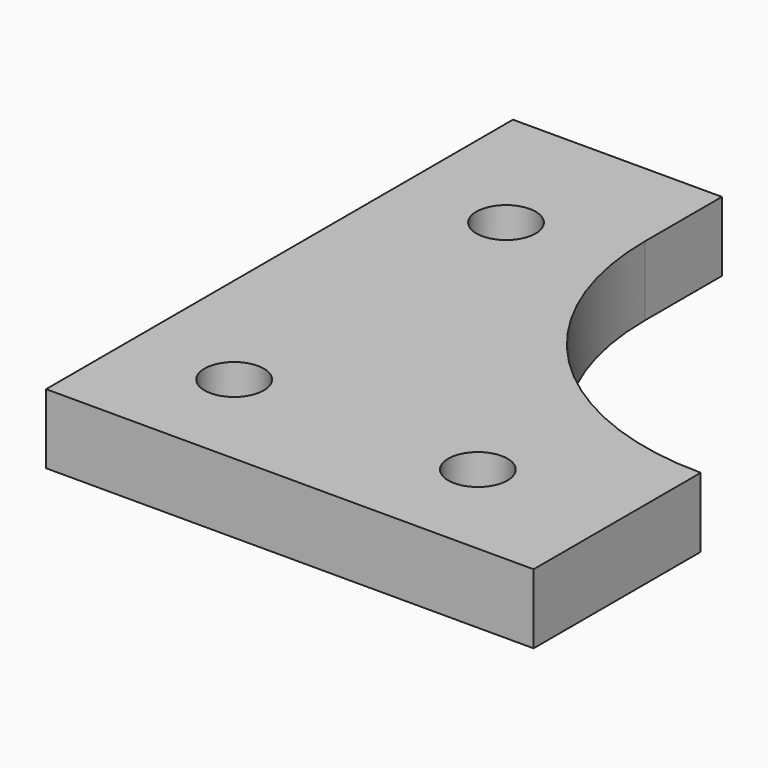
from build123d import *

# Parameters (mm, degrees)
F0_R     = 2.125
F1_DEPTH = 5


with BuildPart() as f1:
    # F0 (on Top) → F1 (new body)
    with BuildSketch(Plane.XY):
        with BuildLine():
            Line((0, 26.9), (-15, 26.9))
            Line((-15, 26.9), (-15, -15))
            Line((-15, -15), (20, -15))
            Line((20, -15), (20, 0))
            ThreePointArc((20, 0), (5.857864, 5.857864), (0, 20))
            Line((0, 20), (0, 26.9))
        make_face()
        with Locations((-7.5, -7.5)):
            Circle(F0_R, mode=Mode.SUBTRACT)
        with Locations((10, -7.5)):
            Circle(F0_R, mode=Mode.SUBTRACT)
        with Locations((-7.5, 16.9)):
            Circle(F0_R, mode=Mode.SUBTRACT)
    extrude(amount=F1_DEPTH)


solid = f1.part
